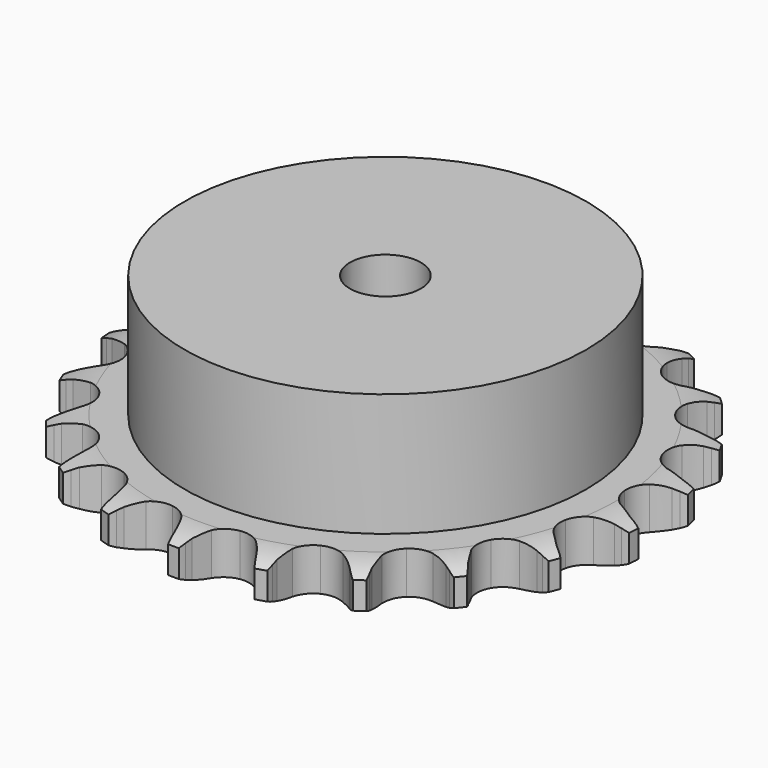
from build123d import *

# Parameters (mm, degrees)
PAD_DEPTH         = 7.2
SKETCH001_R       = 34
PAD001_DEPTH      = 28
SKETCH002_R       = 6
POCKET_DEPTH      = 0.001
POCKET_DEPTH_BACK = -28.001


with BuildPart() as part:
    # Sprocket → Pad (new body)
    with BuildSketch(Plane.XY):
        with BuildLine():
            ThreePointArc((-6.913563, 45.868493), (-5.990553, 44.773338), (-5.309548, 43.51336))
            Line((-5.309548, 43.51336), (-4.898754, 42.52278))
            ThreePointArc((-4.898754, 42.52278), (-4.238507, 41.19022), (-3.406386, 39.957655))
            ThreePointArc((-3.406386, 39.957655), (-1.89613, 38.72999), (0, 38.290989))
            ThreePointArc((0, 38.290989), (1.89613, 38.72999), (3.406386, 39.957655))
            ThreePointArc((3.406386, 39.957655), (4.238507, 41.19022), (4.898754, 42.52278))
            Line((4.898754, 42.52278), (5.309548, 43.51336))
            ThreePointArc((5.309548, 43.51336), (5.990553, 44.773338), (6.913563, 45.868493))
            ThreePointArc((6.913563, 45.868493), (7.472764, 44.549931), (7.752128, 43.1452))
            Line((7.752128, 43.1452), (7.852693, 42.077545))
            ThreePointArc((7.852693, 42.077545), (8.090828, 40.609576), (8.522676, 39.186498))
            ThreePointArc((8.522676, 39.186498), (9.603975, 37.56822), (11.286467, 36.589828))
            ThreePointArc((11.286467, 36.589828), (13.227756, 36.450431), (15.032775, 37.178398))
            Line((15.032775, 37.178398), (17.214925, 39.189679))
            ThreePointArc((17.214925, 39.189679), (17.547232, 39.610678), (17.899448, 40.015167))
            ThreePointArc((17.899448, 40.015167), (18.921582, 41.018438), (20.126388, 41.792876))
            ThreePointArc((20.126388, 41.792876), (20.272093, 40.368066), (20.124994, 38.9434))
            Line((20.124994, 38.9434), (19.906394, 37.893536))
            ThreePointArc((19.906394, 37.893536), (19.701258, 36.420593), (19.69446, 34.933449))
            ThreePointArc((19.69446, 34.933449), (20.250724, 33.068348), (21.570082, 31.6375))
            ThreePointArc((21.570082, 31.6375), (23.384037, 30.932091), (25.323437, 31.095678))
            Line((25.323437, 31.095678), (28.001475, 32.374403))
            ThreePointArc((28.001475, 32.374403), (28.44311, 32.678749), (28.898903, 32.96145))
            ThreePointArc((28.898903, 32.96145), (30.171346, 33.61887), (31.550896, 34.003779))
            ThreePointArc((31.550896, 34.003779), (31.270157, 32.599322), (30.709666, 31.281308))
            Line((30.709666, 31.281308), (30.191325, 30.34252))
            ThreePointArc((30.191325, 30.34252), (29.561144, 28.99548), (29.116305, 27.57641))
            ThreePointArc((29.116305, 27.57641), (29.098108, 25.630208), (29.937101, 23.874041))
            ThreePointArc((29.937101, 23.874041), (31.462544, 22.6653), (33.363999, 22.24997))
            Line((33.363999, 22.24997), (36.299971, 22.68252))
            ThreePointArc((36.299971, 22.68252), (36.811693, 22.84317), (37.330564, 22.978964))
            ThreePointArc((37.330564, 22.978964), (38.740254, 23.232117), (40.171968, 23.193296))
            ThreePointArc((40.171968, 23.193296), (39.48973, 21.933985), (38.565649, 20.839734))
            Line((38.565649, 20.839734), (37.793624, 20.095437))
            ThreePointArc((37.793624, 20.095437), (36.794394, 18.993992), (35.951039, 17.769086))
            ThreePointArc((35.951039, 17.769086), (35.359997, 15.914712), (35.644076, 13.989269))
            ThreePointArc((35.644076, 13.989269), (36.745465, 12.384596), (38.440024, 11.427255))
            Line((38.440024, 11.427255), (41.373055, 10.975195))
            ThreePointArc((41.373055, 10.975195), (41.909395, 10.977875), (42.44524, 10.954697))
            ThreePointArc((42.44524, 10.954697), (43.86692, 10.781089), (45.223584, 10.321988))
            ThreePointArc((45.223584, 10.321988), (44.200468, 9.319718), (42.994905, 8.546459))
            Line((42.994905, 8.546459), (42.037793, 8.062787))
            ThreePointArc((42.037793, 8.062787), (40.758299, 7.304804), (39.591365, 6.3829))
            ThreePointArc((39.591365, 6.3829), (38.479995, 4.785124), (38.18392, 2.861489))
            ThreePointArc((38.18392, 2.861489), (38.763391, 1.003467), (40.100484, -0.410822))
            Line((40.100484, -0.410822), (42.769962, -1.707325))
            ThreePointArc((42.769962, -1.707325), (43.283264, -1.862852), (43.788471, -2.042944))
            ThreePointArc((43.788471, -2.042944), (45.095817, -2.627886), (46.256887, -3.466474))
            ThreePointArc((46.256887, -3.466474), (44.9838, -4.122648), (43.603875, -4.506207))
            Line((43.603875, -4.506207), (42.54672, -4.686277))
            ThreePointArc((42.54672, -4.686277), (41.100651, -5.033447), (39.713825, -5.570434))
            ThreePointArc((39.713825, -5.570434), (38.180877, -6.769643), (37.330954, -8.520547))
            ThreePointArc((37.330954, -8.520547), (37.33702, -10.466824), (38.19784, -12.212395))
            Line((38.19784, -12.212395), (40.36657, -14.238141))
            ThreePointArc((40.36657, -14.238141), (40.811224, -14.538057), (41.240904, -14.85906))
            ThreePointArc((41.240904, -14.85906), (42.317754, -15.803362), (43.180062, -16.946925))
            ThreePointArc((43.180062, -16.946925), (41.770125, -17.198698), (40.338449, -17.158477))
            Line((40.338449, -17.158477), (39.275184, -17.018945))
            ThreePointArc((39.275184, -17.018945), (37.79103, -16.924455), (36.307537, -17.02881))
            ThreePointArc((36.307537, -17.02881), (34.489221, -17.722898), (33.160969, -19.145494))
            ThreePointArc((33.160969, -19.145494), (32.59309, -21.007092), (32.901151, -22.928844))
            Line((32.901151, -22.928844), (34.376431, -25.503835))
            ThreePointArc((34.376431, -25.503835), (34.712929, -25.921491), (35.028901, -26.354883))
            ThreePointArc((35.028901, -26.354883), (35.779572, -27.57464), (36.266499, -28.921568))
            ThreePointArc((36.266499, -28.921568), (34.84499, -28.746569), (33.488775, -28.28614))
            Line((33.488775, -28.28614), (32.513876, -27.839404))
            ThreePointArc((32.513876, -27.839404), (31.12351, -27.311651), (29.675165, -26.974102))
            ThreePointArc((29.675165, -26.974102), (27.733045, -27.101396), (26.044487, -28.069281))
            ThreePointArc((26.044487, -28.069281), (24.953122, -29.680788), (24.68105, -31.607964))
            Line((24.68105, -31.607964), (25.331795, -34.503402))
            ThreePointArc((25.331795, -34.503402), (25.530237, -35.001687), (25.704427, -35.50896))
            ThreePointArc((25.704427, -35.50896), (26.062218, -36.89579), (26.130498, -38.326402))
            ThreePointArc((26.130498, -38.326402), (24.823725, -37.74018), (23.663477, -36.900456))
            Line((23.663477, -36.900456), (22.863567, -36.186211))
            ThreePointArc((22.863567, -36.186211), (21.69053, -35.272086), (20.406024, -34.522627))
            ThreePointArc((20.406024, -34.522627), (18.512667, -34.071815), (16.613837, -34.498989))
            ThreePointArc((16.613837, -34.498989), (15.095959, -35.717216), (14.267929, -37.478578))
            Line((14.267929, -37.478578), (14.036318, -40.43719))
            ThreePointArc((14.036318, -40.43719), (14.079072, -40.97183), (14.096002, -41.507909))
            ThreePointArc((14.096002, -41.507909), (14.029122, -42.938587), (13.672688, -44.325767))
            ThreePointArc((13.672688, -44.325767), (12.596763, -43.380411), (11.735574, -42.236005))
            Line((11.735574, -42.236005), (11.18173, -41.317714))
            ThreePointArc((11.18173, -41.317714), (10.33025, -40.098442), (9.323719, -39.003665))
            ThreePointArc((9.323719, -39.003665), (7.647358, -38.014805), (5.706976, -37.86331))
            ThreePointArc((5.706976, -37.86331), (3.897453, -38.580012), (2.58704, -40.019056))
            Line((2.58704, -40.019056), (1.493653, -42.777957))
            ThreePointArc((1.493653, -42.777957), (1.376919, -43.301446), (1.235085, -43.818699))
            ThreePointArc((1.235085, -43.818699), (0.749477, -45.166102), (0, -46.386593))
            ThreePointArc((0, -46.386593), (-0.749477, -45.166102), (-1.235085, -43.818699))
            Line((-1.235085, -43.818699), (-1.493653, -42.777957))
            ThreePointArc((-1.493653, -42.777957), (-1.947917, -41.361876), (-2.58704, -40.019056))
            ThreePointArc((-2.58704, -40.019056), (-3.897453, -38.580012), (-5.706976, -37.86331))
            ThreePointArc((-5.706976, -37.86331), (-7.647358, -38.014805), (-9.323719, -39.003665))
            Line((-9.323719, -39.003665), (-11.18173, -41.317714))
            ThreePointArc((-11.18173, -41.317714), (-11.447579, -41.783538), (-11.735574, -42.236005))
            ThreePointArc((-11.735574, -42.236005), (-12.596763, -43.380411), (-13.672688, -44.325767))
            ThreePointArc((-13.672688, -44.325767), (-14.029122, -42.938587), (-14.096002, -41.507909))
            Line((-14.096002, -41.507909), (-14.036318, -40.43719))
            ThreePointArc((-14.036318, -40.43719), (-14.053003, -38.950125), (-14.267929, -37.478578))
            ThreePointArc((-14.267929, -37.478578), (-15.095959, -35.717216), (-16.613837, -34.498989))
            ThreePointArc((-16.613837, -34.498989), (-18.512667, -34.071815), (-20.406024, -34.522627))
            Line((-20.406024, -34.522627), (-22.863567, -36.186211))
            ThreePointArc((-22.863567, -36.186211), (-23.254909, -36.55298), (-23.663477, -36.900456))
            ThreePointArc((-23.663477, -36.900456), (-24.823725, -37.74018), (-26.130498, -38.326402))
            ThreePointArc((-26.130498, -38.326402), (-26.062218, -36.89579), (-25.704427, -35.50896))
            Line((-25.704427, -35.50896), (-25.331795, -34.503402))
            ThreePointArc((-25.331795, -34.503402), (-24.909419, -33.077485), (-24.68105, -31.607964))
            ThreePointArc((-24.68105, -31.607964), (-24.953122, -29.680788), (-26.044487, -28.069281))
            ThreePointArc((-26.044487, -28.069281), (-27.733045, -27.101396), (-29.675165, -26.974102))
            Line((-29.675165, -26.974102), (-32.513876, -27.839404))
            ThreePointArc((-32.513876, -27.839404), (-32.995939, -28.074529), (-33.488775, -28.28614))
            ThreePointArc((-33.488775, -28.28614), (-34.84499, -28.746569), (-36.266499, -28.921568))
            ThreePointArc((-36.266499, -28.921568), (-35.779572, -27.57464), (-35.028901, -26.354883))
            Line((-35.028901, -26.354883), (-34.376431, -25.503835))
            ThreePointArc((-34.376431, -25.503835), (-33.552523, -24.265765), (-32.901151, -22.928844))
            ThreePointArc((-32.901151, -22.928844), (-32.59309, -21.007092), (-33.160969, -19.145494))
            ThreePointArc((-33.160969, -19.145494), (-34.489221, -17.722898), (-36.307537, -17.02881))
            Line((-36.307537, -17.02881), (-39.275184, -17.018945))
            ThreePointArc((-39.275184, -17.018945), (-39.805134, -17.101533), (-40.338449, -17.158477))
            ThreePointArc((-40.338449, -17.158477), (-41.770125, -17.198698), (-43.180062, -16.946925))
            ThreePointArc((-43.180062, -16.946925), (-42.317754, -15.803362), (-41.240904, -14.85906))
            Line((-41.240904, -14.85906), (-40.36657, -14.238141))
            ThreePointArc((-40.36657, -14.238141), (-39.214338, -13.297925), (-38.19784, -12.212395))
            ThreePointArc((-38.19784, -12.212395), (-37.33702, -10.466824), (-37.330954, -8.520547))
            ThreePointArc((-37.330954, -8.520547), (-38.180877, -6.769643), (-39.713825, -5.570434))
            Line((-39.713825, -5.570434), (-42.54672, -4.686277))
            ThreePointArc((-42.54672, -4.686277), (-43.077469, -4.60899), (-43.603875, -4.506207))
            ThreePointArc((-43.603875, -4.506207), (-44.9838, -4.122648), (-46.256887, -3.466474))
            ThreePointArc((-46.256887, -3.466474), (-45.095817, -2.627886), (-43.788471, -2.042944))
            Line((-43.788471, -2.042944), (-42.769962, -1.707325))
            ThreePointArc((-42.769962, -1.707325), (-41.391787, -1.148506), (-40.100484, -0.410822))
            ThreePointArc((-40.100484, -0.410822), (-38.763391, 1.003467), (-38.18392, 2.861489))
            ThreePointArc((-38.18392, 2.861489), (-38.479995, 4.785124), (-39.591365, 6.3829))
            Line((-39.591365, 6.3829), (-42.037793, 8.062787))
            ThreePointArc((-42.037793, 8.062787), (-42.522182, 8.293081), (-42.994905, 8.546459))
            ThreePointArc((-42.994905, 8.546459), (-44.200468, 9.319718), (-45.223584, 10.321988))
            ThreePointArc((-45.223584, 10.321988), (-43.86692, 10.781089), (-42.44524, 10.954697))
            Line((-42.44524, 10.954697), (-41.373055, 10.975195))
            ThreePointArc((-41.373055, 10.975195), (-39.891395, 11.102962), (-38.440024, 11.427255))
            ThreePointArc((-38.440024, 11.427255), (-36.745465, 12.384596), (-35.644076, 13.989269))
            ThreePointArc((-35.644076, 13.989269), (-35.359997, 15.914712), (-35.951039, 17.769086))
            Line((-35.951039, 17.769086), (-37.793624, 20.095437))
            ThreePointArc((-37.793624, 20.095437), (-38.188612, 20.458276), (-38.565649, 20.839734))
            ThreePointArc((-38.565649, 20.839734), (-39.48973, 21.933985), (-40.171968, 23.193296))
            ThreePointArc((-40.171968, 23.193296), (-38.740254, 23.232117), (-37.330564, 22.978964))
            Line((-37.330564, 22.978964), (-36.299971, 22.68252))
            ThreePointArc((-36.299971, 22.68252), (-34.846476, 22.367884), (-33.363999, 22.24997))
            ThreePointArc((-33.363999, 22.24997), (-31.462544, 22.6653), (-29.937101, 23.874041))
            ThreePointArc((-29.937101, 23.874041), (-29.098108, 25.630208), (-29.116305, 27.57641))
            Line((-29.116305, 27.57641), (-30.191325, 30.34252))
            ThreePointArc((-30.191325, 30.34252), (-30.461816, 30.805663), (-30.709666, 31.281308))
            ThreePointArc((-30.709666, 31.281308), (-31.270157, 32.599322), (-31.550896, 34.003779))
            ThreePointArc((-31.550896, 34.003779), (-30.171346, 33.61887), (-28.898903, 32.96145))
            Line((-28.898903, 32.96145), (-28.001475, 32.374403))
            ThreePointArc((-28.001475, 32.374403), (-26.705296, 31.64532), (-25.323437, 31.095678))
            ThreePointArc((-25.323437, 31.095678), (-23.384037, 30.932091), (-21.570082, 31.6375))
            ThreePointArc((-21.570082, 31.6375), (-20.250724, 33.068348), (-19.69446, 34.933449))
            Line((-19.69446, 34.933449), (-19.906394, 37.893536))
            ThreePointArc((-19.906394, 37.893536), (-20.028355, 38.415832), (-20.124994, 38.9434))
            ThreePointArc((-20.124994, 38.9434), (-20.272093, 40.368066), (-20.126388, 41.792876))
            ThreePointArc((-20.126388, 41.792876), (-18.921582, 41.018438), (-17.899448, 40.015167))
            Line((-17.899448, 40.015167), (-17.214925, 39.189679))
            ThreePointArc((-17.214925, 39.189679), (-16.191233, 38.110932), (-15.032775, 37.178398))
            ThreePointArc((-15.032775, 37.178398), (-13.227756, 36.450431), (-11.286467, 36.589828))
            ThreePointArc((-11.286467, 36.589828), (-9.603975, 37.56822), (-8.522676, 39.186498))
            Line((-8.522676, 39.186498), (-7.852693, 42.077545))
            ThreePointArc((-7.852693, 42.077545), (-7.815286, 42.612585), (-7.752128, 43.1452))
            ThreePointArc((-7.752128, 43.1452), (-7.472764, 44.549931), (-6.913563, 45.868493))
        make_face()
    extrude(amount=PAD_DEPTH)

    # Sketch → Groove (revolve, cut)
    with BuildSketch(Plane.XZ):
        with BuildLine():
            Line((39.183431, 0), (44.85, 0))
            Line((50.516569, 0), (44.85, 0))
            Line((50.516569, 7.2), (50.516569, 0))
            Line((44.85, 7.2), (50.516569, 7.2))
            Line((39.183431, 7.2), (44.85, 7.2))
            ThreePointArc((44.85, 5.9), (42.09032, 6.870833), (39.183431, 7.2))
            Line((44.85, 1.3), (44.85, 5.9))
            ThreePointArc((39.183431, 0), (42.09032, 0.329167), (44.85, 1.3))
        make_face()
    revolve(axis=Axis((0, 0, 0), (0, 0, 1)), mode=Mode.SUBTRACT)

    # Sketch001 → Pad001 (join)
    with BuildSketch(Plane.XY):
        Circle(SKETCH001_R)
    extrude(amount=PAD001_DEPTH)

    # Sketch002 → Pocket (cut, two sides)
    with BuildSketch(Plane.XY) as pocket_sk:
        Circle(SKETCH002_R)
    extrude(amount=-POCKET_DEPTH, mode=Mode.SUBTRACT)
    extrude(pocket_sk.sketch, amount=-POCKET_DEPTH_BACK, mode=Mode.SUBTRACT)


solid = part.part
